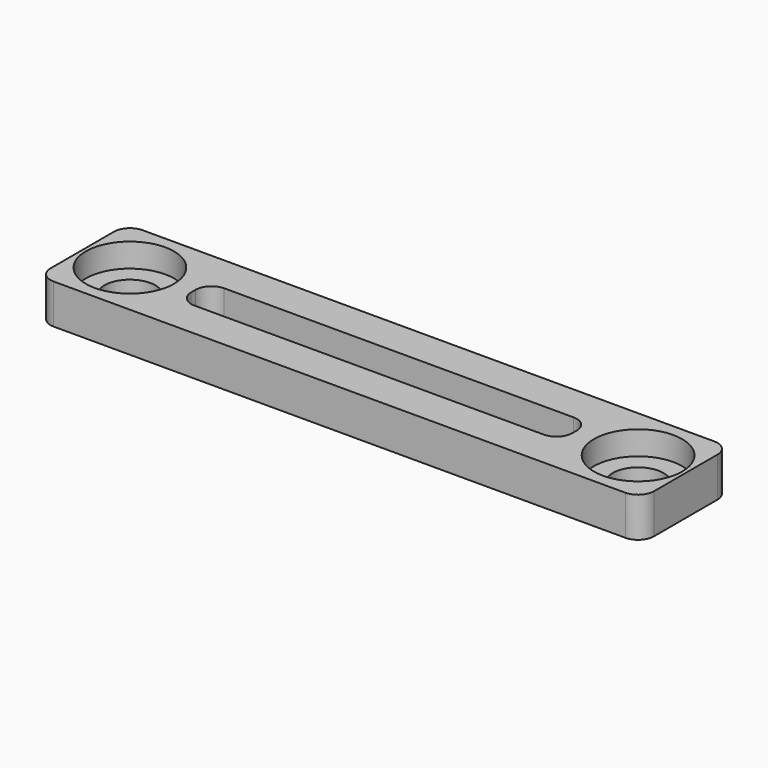
from build123d import *

# Parameters (mm, degrees)
F0_R     = 2.775
F0_R_2   = 1.6
F1_DEPTH = 1
F2_DEPTH = 2.5


with BuildPart() as f1:
    # F0 (on Top) → F1 (new body)
    with BuildSketch(Plane.XY):
        with BuildLine():
            Line((16.172688, 15.497016), (-19.827312, 15.497016))
            ThreePointArc((-19.827312, 15.497016), (-20.534419, 15.204123), (-20.827312, 14.497016))
            Line((-20.827312, 14.497016), (-20.827312, 9.497016))
            ThreePointArc((-20.827312, 9.497016), (-20.534419, 8.789909), (-19.827312, 8.497016))
            Line((-19.827312, 8.497016), (16.172688, 8.497016))
            ThreePointArc((16.172688, 8.497016), (16.879794, 8.789909), (17.172688, 9.497016))
            Line((17.172688, 9.497016), (17.172688, 14.497016))
            ThreePointArc((17.172688, 14.497016), (16.879794, 15.204123), (16.172688, 15.497016))
        make_face()
        with Locations((-17.827312, 11.997016)):
            Circle(F0_R, mode=Mode.SUBTRACT)
        with BuildLine():
            ThreePointArc((-13.827312, 12.172016), (-13.534419, 12.879123), (-12.827312, 13.172016))
            Line((-12.827312, 13.172016), (9.172688, 13.172016))
            ThreePointArc((9.172688, 13.172016), (9.879794, 12.879123), (10.172688, 12.172016))
            Line((10.172688, 12.172016), (10.172688, 11.822016))
            ThreePointArc((10.172688, 11.822016), (9.879794, 11.114909), (9.172688, 10.822016))
            Line((9.172688, 10.822016), (-12.827312, 10.822016))
            ThreePointArc((-12.827312, 10.822016), (-13.534419, 11.114909), (-13.827312, 11.822016))
            Line((-13.827312, 11.822016), (-13.827312, 12.172016))
        make_face(mode=Mode.SUBTRACT)
        with Locations((14.172688, 11.997016)):
            Circle(F0_R, mode=Mode.SUBTRACT)
        with Locations((-17.827312, 11.997016)):
            Circle(F0_R)
        with Locations((-17.827312, 11.997016)):
            Circle(F0_R_2, mode=Mode.SUBTRACT)
        with Locations((14.172688, 11.997016)):
            Circle(F0_R)
        with Locations((14.172688, 11.997016)):
            Circle(F0_R_2, mode=Mode.SUBTRACT)
    extrude(amount=F1_DEPTH)

    # F0 (on Top) → F2 (join)
    with BuildSketch(Plane.XY):
        with BuildLine():
            Line((16.172688, 15.497016), (-19.827312, 15.497016))
            ThreePointArc((-19.827312, 15.497016), (-20.534419, 15.204123), (-20.827312, 14.497016))
            Line((-20.827312, 14.497016), (-20.827312, 9.497016))
            ThreePointArc((-20.827312, 9.497016), (-20.534419, 8.789909), (-19.827312, 8.497016))
            Line((-19.827312, 8.497016), (16.172688, 8.497016))
            ThreePointArc((16.172688, 8.497016), (16.879794, 8.789909), (17.172688, 9.497016))
            Line((17.172688, 9.497016), (17.172688, 14.497016))
            ThreePointArc((17.172688, 14.497016), (16.879794, 15.204123), (16.172688, 15.497016))
        make_face()
        with Locations((-17.827312, 11.997016)):
            Circle(F0_R, mode=Mode.SUBTRACT)
        with BuildLine():
            ThreePointArc((-13.827312, 12.172016), (-13.534419, 12.879123), (-12.827312, 13.172016))
            Line((-12.827312, 13.172016), (9.172688, 13.172016))
            ThreePointArc((9.172688, 13.172016), (9.879794, 12.879123), (10.172688, 12.172016))
            Line((10.172688, 12.172016), (10.172688, 11.822016))
            ThreePointArc((10.172688, 11.822016), (9.879794, 11.114909), (9.172688, 10.822016))
            Line((9.172688, 10.822016), (-12.827312, 10.822016))
            ThreePointArc((-12.827312, 10.822016), (-13.534419, 11.114909), (-13.827312, 11.822016))
            Line((-13.827312, 11.822016), (-13.827312, 12.172016))
        make_face(mode=Mode.SUBTRACT)
        with Locations((14.172688, 11.997016)):
            Circle(F0_R, mode=Mode.SUBTRACT)
    extrude(amount=F2_DEPTH)


solid = f1.part
